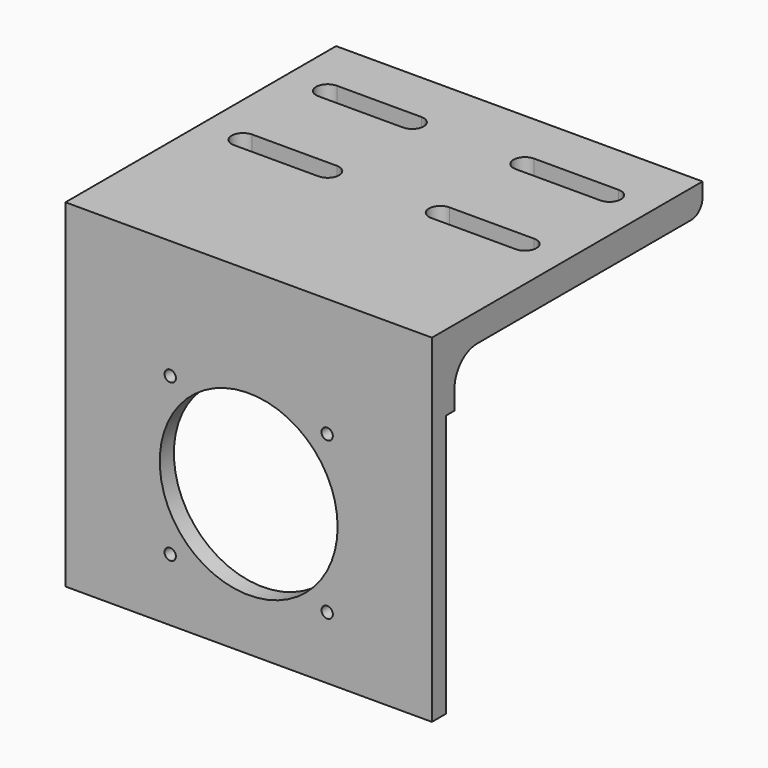
from build123d import *

# Parameters (mm, degrees)
F1_DEPTH  = 165.1
F2_R      = 40.0685
F3_DEPTH  = 25.4
F6_D      = 5.1054
F9_DEPTH  = 25.4
F10_W     = 165.1
F10_H     = 118.2624
F10_R     = 2.5527
F10_R_2   = 40.0685
F11_DEPTH = 4.7498


with BuildPart() as f1:
    # F0 (on Right) → F1 (new body)
    with BuildSketch(Plane.YZ):
        with BuildLine():
            Line((0, 152.4), (0, 0))
            Line((0, 0), (12.7, 0))
            Line((12.7, 0), (12.7, 127))
            ThreePointArc((12.7, 127), (16.4197438789, 135.9802561211), (25.4, 139.7))
            Line((25.4, 139.7), (146.05, 139.7))
            ThreePointArc((146.05, 139.7), (150.5401280605, 141.5598719395), (152.4, 146.05))
            Line((152.4, 146.05), (152.4, 152.4))
            Line((152.4, 152.4), (0, 152.4))
        make_face()
    extrude(amount=F1_DEPTH)

    # F2 (on face) → F3 (cut)
    with BuildSketch(Plane.XZ):
        with Locations((82.55, 63.5)):
            Circle(F2_R)
    extrude(amount=-F3_DEPTH, mode=Mode.SUBTRACT)

    # F6 (through all)
    with Locations(Plane.XZ):
        with Locations((47.1932, 98.8568), (117.9068, 98.8568), (117.9068, 28.1432), (47.1932, 28.1432)):
            Hole(F6_D / 2)

    # F8 (on face) → F9 (cut)
    with BuildSketch(Plane.XY.offset(152.4)):
        with BuildLine():
            ThreePointArc((19.05, 128.9812), (13.8938, 123.825), (19.05, 118.6688))
            Line((19.05, 118.6688), (57.15, 118.6688))
            ThreePointArc((57.15, 118.6688), (62.3062, 123.825), (57.15, 128.9812))
            Line((57.15, 128.9812), (19.05, 128.9812))
        make_face()
        with BuildLine():
            ThreePointArc((107.95, 128.9812), (102.7938, 123.825), (107.95, 118.6688))
            Line((107.95, 118.6688), (146.05, 118.6688))
            ThreePointArc((146.05, 118.6688), (151.2062, 123.825), (146.05, 128.9812))
            Line((146.05, 128.9812), (107.95, 128.9812))
        make_face()
        with BuildLine():
            ThreePointArc((107.95, 81.3562), (102.7938, 76.2), (107.95, 71.0438))
            Line((107.95, 71.0438), (146.05, 71.0438))
            ThreePointArc((146.05, 71.0438), (151.2062, 76.2), (146.05, 81.3562))
            Line((146.05, 81.3562), (107.95, 81.3562))
        make_face()
        with BuildLine():
            ThreePointArc((19.05, 81.3562), (13.8938, 76.2), (19.05, 71.0438))
            Line((19.05, 71.0438), (57.15, 71.0438))
            ThreePointArc((57.15, 71.0438), (62.3062, 76.2), (57.15, 81.3562))
            Line((57.15, 81.3562), (19.05, 81.3562))
        make_face()
    extrude(amount=-F9_DEPTH, mode=Mode.SUBTRACT)

    # F10 (on face) → F11 (cut)
    with BuildSketch(Plane(origin=(0, 12.7, 0), x_dir=(-1, 0, 0), z_dir=(0, 1, 0))):
        with Locations((-82.55, 59.1312)):
            Rectangle(F10_W, F10_H)
        with Locations((-117.9068, 28.1432)):
            Circle(F10_R, mode=Mode.SUBTRACT)
        with Locations((-47.1932, 28.1432)):
            Circle(F10_R, mode=Mode.SUBTRACT)
        with Locations((-117.9068, 98.8568)):
            Circle(F10_R, mode=Mode.SUBTRACT)
        with Locations((-82.55, 63.5)):
            Circle(F10_R_2, mode=Mode.SUBTRACT)
        with Locations((-47.1932, 98.8568)):
            Circle(F10_R, mode=Mode.SUBTRACT)
    extrude(amount=-F11_DEPTH, mode=Mode.SUBTRACT)


solid = f1.part
